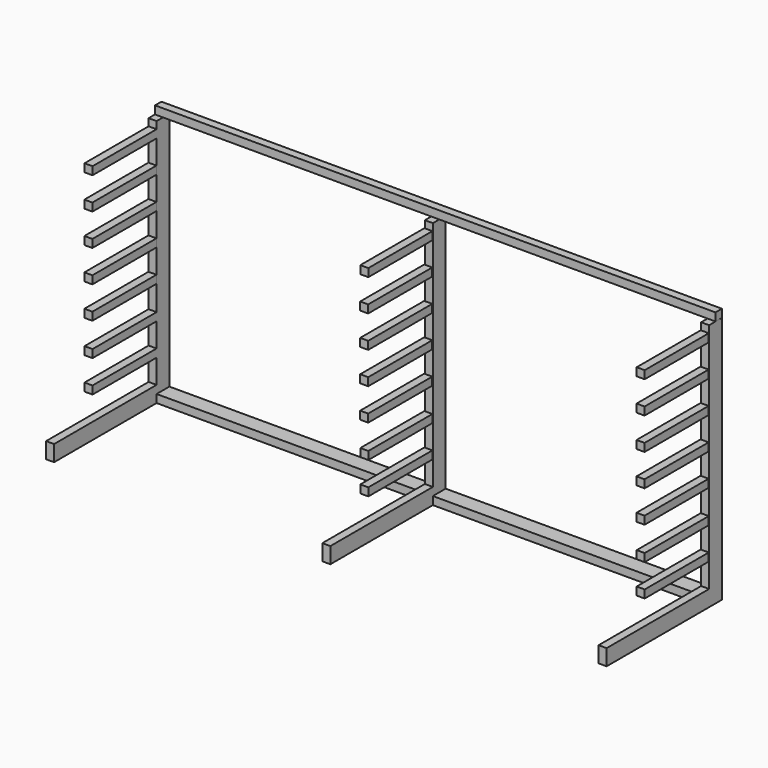
from build123d import *

# Parameters (mm, degrees)
F1_DEPTH = 100
F3_DEPTH = 800
F4_W     = 1749.815702
F4_H     = 50
F5_DEPTH = 50
F6_W     = 50
F6_H     = 50
F7_DEPTH = 500
F8_DEPTH = 25


with BuildPart() as f1:
    # F0 (on Front) → F1 (new body)
    with BuildSketch(Plane.XZ):
        Polygon((-3500, 0), (0, 0), (0, 1550), (-50, 1550), (-50, 50), (-1725, 50), (-1725, 1550), (-1775, 1550), (-1775, 50), (-3450, 50), (-3450, 1550), (-3500, 1550), align=None)
    extrude(amount=F1_DEPTH)

    # F2 (on face) → F3 (join)
    with BuildSketch(Plane.XZ.offset(100)):
        Polygon((-1775, 50), (-1775, 0), (-1725, 0), (-1725, 50), (-1725, 100), (-1775, 100), align=None)
        Polygon((-3500, 100), (-3500, 0), (-3450, 0), (-3450, 50), (-3450, 100), align=None)
        Polygon((-50, 50), (-50, 0), (0, 0), (0, 100), (-50, 100), align=None)
    extrude(amount=F3_DEPTH)

    # F4 (on face) → F5 (join)
    with BuildSketch(Plane.XY.offset(1550)):
        with Locations((-875.092149, -25)):
            Rectangle(F4_W, F4_H)
        with Locations((-2624.907851, -25)):
            Rectangle(F4_W, F4_H)
    extrude(amount=F5_DEPTH)

    # F6 (on face) → F7 (join)
    with BuildSketch(Plane.XZ.offset(100)):
        with Locations((-3475, 275)):
            Rectangle(F6_W, F6_H)
        with Locations((-3475, 475)):
            Rectangle(F6_W, F6_H)
        with Locations((-3475.837822, 680.244577)):
            Rectangle(F6_W, F6_H)
        with Locations((-3475.837822, 880.244577)):
            Rectangle(F6_W, F6_H)
        with Locations((-3475.837822, 1080.244577)):
            Rectangle(F6_W, F6_H)
        with Locations((-3475.837822, 1280.244577)):
            Rectangle(F6_W, F6_H)
        with Locations((-3475, 1480.244577)):
            Rectangle(F6_W, F6_H)
        with Locations((-1752.889729, 275)):
            Rectangle(F6_W, F6_H)
        with Locations((-1752.889729, 475)):
            Rectangle(F6_W, F6_H)
        with Locations((-1753.727551, 680.244577)):
            Rectangle(F6_W, F6_H)
        with Locations((-1753.727551, 880.244577)):
            Rectangle(F6_W, F6_H)
        with Locations((-1753.727551, 1080.244577)):
            Rectangle(F6_W, F6_H)
        with Locations((-1753.727551, 1280.244577)):
            Rectangle(F6_W, F6_H)
        with Locations((-1752.889729, 1480.244577)):
            Rectangle(F6_W, F6_H)
        with Locations((-27.241493, 275)):
            Rectangle(F6_W, F6_H)
        with Locations((-27.241493, 475)):
            Rectangle(F6_W, F6_H)
        with Locations((-28.079315, 680.244577)):
            Rectangle(F6_W, F6_H)
        with Locations((-28.079315, 880.244577)):
            Rectangle(F6_W, F6_H)
        with Locations((-28.079315, 1080.244577)):
            Rectangle(F6_W, F6_H)
        with Locations((-28.079315, 1280.244577)):
            Rectangle(F6_W, F6_H)
        with Locations((-27.241493, 1480.244577)):
            Rectangle(F6_W, F6_H)
    extrude(amount=F7_DEPTH)

    # F6 (on face) → F8 (join)
    with BuildSketch(Plane.XZ.offset(100)):
        with Locations((-3475, 275)):
            Rectangle(F6_W, F6_H)
        with Locations((-3475, 475)):
            Rectangle(F6_W, F6_H)
        with Locations((-3475.837822, 680.244577)):
            Rectangle(F6_W, F6_H)
        with Locations((-3475.837822, 880.244577)):
            Rectangle(F6_W, F6_H)
        with Locations((-3475.837822, 1080.244577)):
            Rectangle(F6_W, F6_H)
        with Locations((-3475.837822, 1280.244577)):
            Rectangle(F6_W, F6_H)
        with Locations((-3475, 1480.244577)):
            Rectangle(F6_W, F6_H)
        with Locations((-1752.889729, 275)):
            Rectangle(F6_W, F6_H)
        with Locations((-1752.889729, 475)):
            Rectangle(F6_W, F6_H)
        with Locations((-1753.727551, 680.244577)):
            Rectangle(F6_W, F6_H)
        with Locations((-1753.727551, 880.244577)):
            Rectangle(F6_W, F6_H)
        with Locations((-1753.727551, 1080.244577)):
            Rectangle(F6_W, F6_H)
        with Locations((-1753.727551, 1280.244577)):
            Rectangle(F6_W, F6_H)
        with Locations((-1752.889729, 1480.244577)):
            Rectangle(F6_W, F6_H)
        with Locations((-27.241493, 275)):
            Rectangle(F6_W, F6_H)
        with Locations((-27.241493, 475)):
            Rectangle(F6_W, F6_H)
        with Locations((-28.079315, 680.244577)):
            Rectangle(F6_W, F6_H)
        with Locations((-28.079315, 880.244577)):
            Rectangle(F6_W, F6_H)
        with Locations((-28.079315, 1080.244577)):
            Rectangle(F6_W, F6_H)
        with Locations((-28.079315, 1280.244577)):
            Rectangle(F6_W, F6_H)
        with Locations((-27.241493, 1480.244577)):
            Rectangle(F6_W, F6_H)
    extrude(amount=F8_DEPTH)


solid = f1.part
